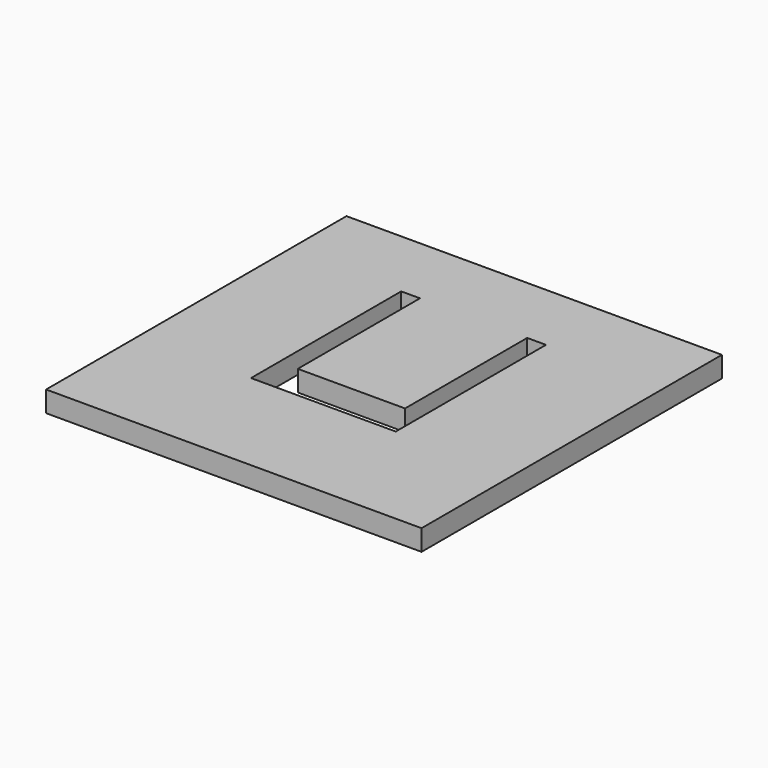
from build123d import *

# Parameters (mm, degrees)
F0_W     = 25.4
F0_H     = 25.4
F1_DEPTH = 1.411111


with BuildPart() as f1:
    # F0 (on Top) → F1 (new body)
    with BuildSketch(Plane.XY):
        with Locations((12.7, 12.7)):
            Rectangle(F0_W, F0_H)
        Polygon((7.636011, 7.78359), (7.636011, 20.48359), (8.906011, 20.48359), (8.906011, 10.152629), (16.159663, 10.152629), (16.159663, 20.48359), (17.429663, 20.48359), (17.429663, 7.78359), align=None, mode=Mode.SUBTRACT)
    extrude(amount=F1_DEPTH)


solid = f1.part
